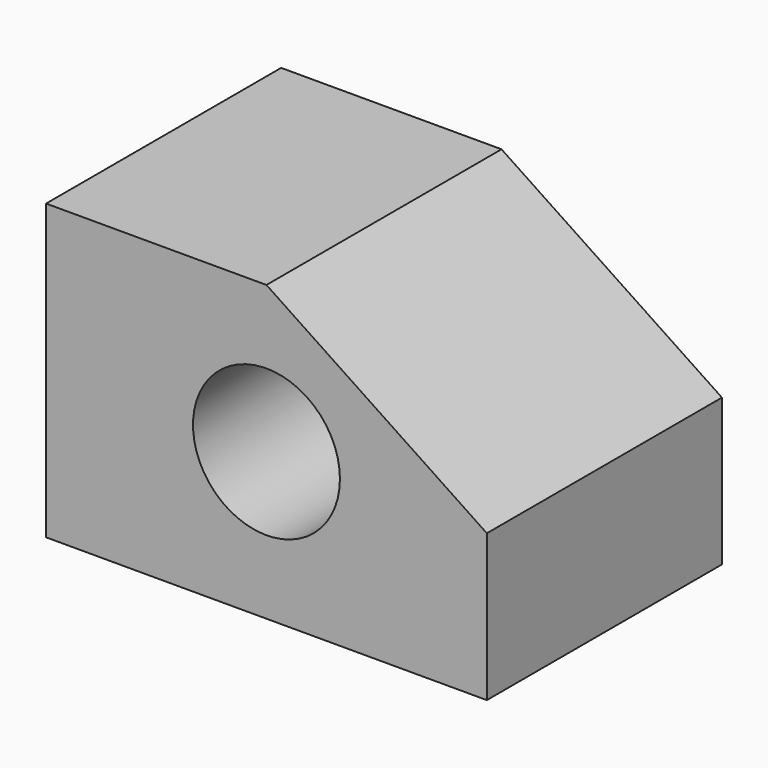
from build123d import *

# Parameters (mm, degrees)
F0_R     = 12.7
F1_DEPTH = 50.8


with BuildPart() as f1:
    # F0 (on Front) → F1 (new body)
    with BuildSketch(Plane.XZ):
        Polygon((0, 50.8), (0, 0), (38.1, 0), (76.2, 0), (76.2, 25.4), (38.1, 50.8), align=None)
        with Locations((38.1, 25.4)):
            Circle(F0_R, mode=Mode.SUBTRACT)
    extrude(amount=-F1_DEPTH)


solid = f1.part
